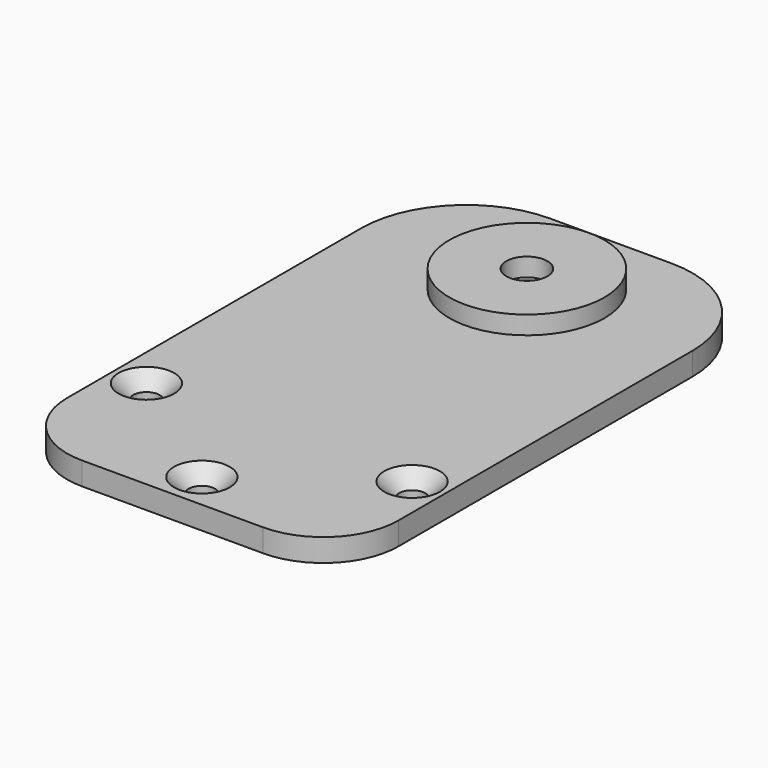
from build123d import *

# Parameters (mm, degrees)
SKETCH_W            = 36.3
SKETCH_H            = 60
PAD_DEPTH           = 2.5
FILLET_R            = 8.23
FILLET001_R         = 11.5
HOLE_D              = 2.9
HOLE_DEPTH          = 25
HOLE_CSINK_D        = 6.1
HOLE_CSINK_ANGLE    = 90
SKETCH002_R         = 8.5
PAD001_DEPTH        = 2
SKETCH003_R         = 2.25
POCKET_DEPTH        = 2
HOLE001_D           = 3.4
HOLE001_DEPTH       = 25
HOLE001_CSINK_D     = 6.1
HOLE001_CSINK_ANGLE = 90


with BuildPart() as part:
    # Sketch → Pad (new body)
    with BuildSketch(Plane.XY):
        with Locations((0, 30)):
            Rectangle(SKETCH_W, SKETCH_H)
    extrude(amount=PAD_DEPTH)

    # Fillet
    fillet_edges = [part.edges().sort_by_distance(p)[0] for p in [
        (18.15, 0, 1.25),
        (-18.15, 0, 1.25),
    ]]
    fillet(fillet_edges, radius=FILLET_R)

    # Fillet001
    fillet001_edges = [part.edges().sort_by_distance(p)[0] for p in [
        (-18.15, 60, 1.25),
        (18.15, 60, 1.25),
    ]]
    fillet(fillet001_edges, radius=FILLET001_R)

    # Hole
    with Locations(Plane.XY.offset(2.5)):
        with Locations((0, 4), (-14.553, 14.594), (14.553, 14.594)):
            CounterSinkHole(HOLE_D / 2, HOLE_CSINK_D / 2, depth=HOLE_DEPTH, counter_sink_angle=HOLE_CSINK_ANGLE)

    # Sketch002 (on Face5 of Hole) → Pad001 (join)
    with BuildSketch(Plane.XY.offset(2.5)):
        with Locations((0, 48.5)):
            Circle(SKETCH002_R)
    extrude(amount=PAD001_DEPTH)

    # Sketch003 (on Face18 of Pad001) → Pocket (cut)
    with BuildSketch(Plane.XY.offset(4.5)):
        with Locations((0, 48.5)):
            Circle(SKETCH003_R)
    extrude(amount=-POCKET_DEPTH, mode=Mode.SUBTRACT)

    # Hole001
    with Locations(Plane(origin=(0, 0, 0), x_dir=(1, 0, 0), z_dir=(0, 0, -1))):
        with Locations((0, -48.5)):
            CounterSinkHole(HOLE001_D / 2, HOLE001_CSINK_D / 2, depth=HOLE001_DEPTH, counter_sink_angle=HOLE001_CSINK_ANGLE)


solid = part.part
